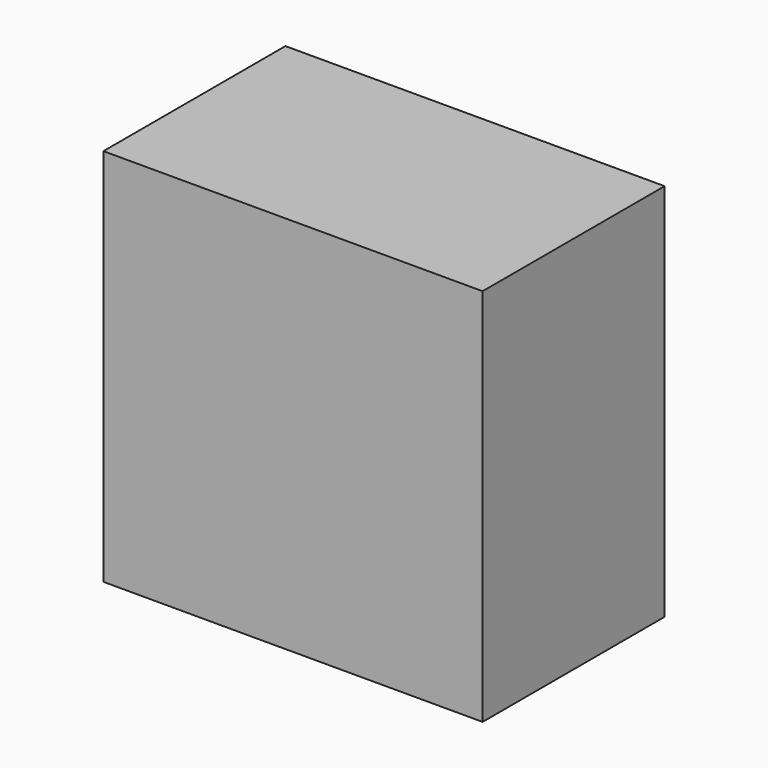
from build123d import *

# Parameters (mm, degrees)
F1_DEPTH = 15
F3_W     = 50
F3_H     = 50
F4_DEPTH = 30


with BuildPart() as f1:
    # F0 (on Front) → F1 (new body)
    with BuildSketch(Plane.XZ):
        Polygon((0, 30), (0, 0), (30, 0), align=None)
    extrude(amount=F1_DEPTH)

    # F3 (on offset) → F4 (join)
    with BuildSketch(Plane.XZ.offset(-15)):
        with Locations((25, 25)):
            Rectangle(F3_W, F3_H)
    extrude(amount=F4_DEPTH)


solid = f1.part
